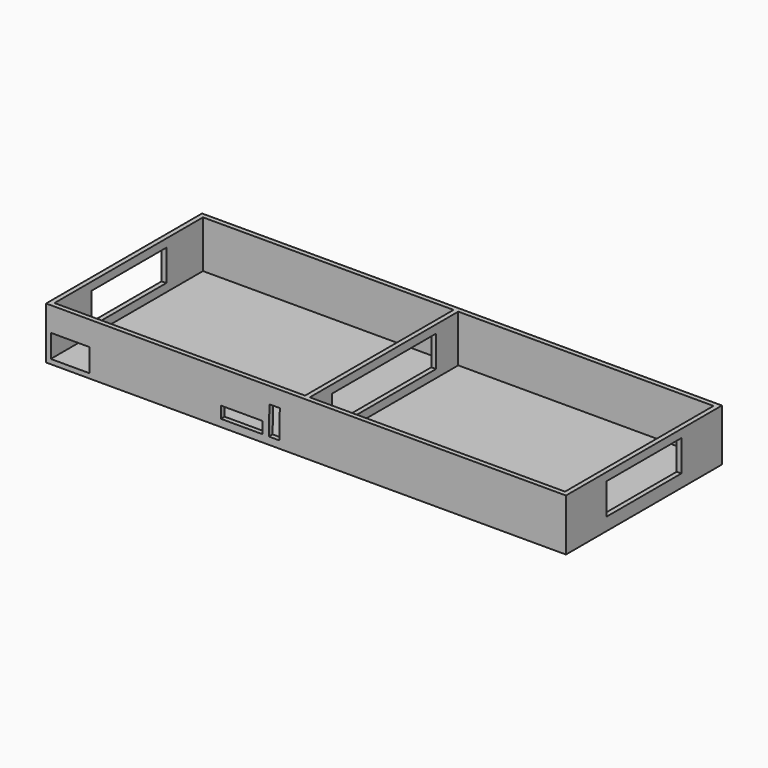
from build123d import *

# Parameters (mm, degrees)
F0_W       = 2000
F0_H       = 750
F1_DEPTH   = 200
F2_T       = -18
F3_W       = 18
F3_H       = 714
F4_DEPTH   = 182
F6_DEPTH   = 25
F7_W       = 150
F7_H       = 88.6
F7_W_2     = 160
F7_H_2     = 45
F8_DEPTH   = 25
F9_DEPTH   = 25
F10_DEPTH  = 25
F11_W      = 360
F11_H      = 120
F12_DEPTH  = 25
F12_FACE_W = 360
F12_FACE_H = 120
F13_DEPTH  = 25
F14_DEPTH  = 25
F15_W      = 360
F15_H      = 120
F16_DEPTH  = 20


with BuildPart() as f1:
    # F0 (on Top) → F1 (new body)
    with BuildSketch(Plane.XY):
        Rectangle(F0_W, F0_H)
    extrude(amount=F1_DEPTH)

    # F2
    f2_openings = [f1.faces().sort_by_distance(p)[0] for p in [
        (0, 0, 200),
    ]]
    offset(amount=F2_T, openings=f2_openings)

    # F3 (on face) → F4 (join)
    with BuildSketch(Plane.XY.offset(18)):
        with Locations((-9, 0)):
            Rectangle(F3_W, F3_H)
    extrude(amount=F4_DEPTH)

    # F5 (on face) → F6 (cut)
    with BuildSketch(Plane(origin=(-18, 0, 0), x_dir=(0, -1, 0), z_dir=(-1, 0, 0))):
        Polygon((250, 169), (0, 169), (-250, 169), (-250, 49), (250, 49), align=None)
    extrude(amount=-F6_DEPTH, mode=Mode.SUBTRACT)

    # F7 (on face) → F8 (cut)
    with BuildSketch(Plane(origin=(0, -357, 0), x_dir=(-1, 0, 0), z_dir=(0, 1, 0))):
        with Locations((907, 62.3)):
            Rectangle(F7_W, F7_H)
        Polygon((103.00435, 28), (143.00435, 28), (140.777453, 137.977456), (100.777453, 137.977456), align=None)
        with Locations((248, 50.5)):
            Rectangle(F7_W_2, F7_H_2)
    extrude(amount=-F8_DEPTH, mode=Mode.SUBTRACT)

    # F7 (on face) → F9 (cut)
    with BuildSketch(Plane(origin=(0, -357, 0), x_dir=(-1, 0, 0), z_dir=(0, 1, 0))):
        with Locations((907, 62.3)):
            Rectangle(F7_W, F7_H)
        Polygon((103.00435, 28), (143.00435, 28), (140.777453, 137.977456), (100.777453, 137.977456), align=None)
        with Locations((248, 50.5)):
            Rectangle(F7_W_2, F7_H_2)
    extrude(amount=-F9_DEPTH, mode=Mode.SUBTRACT)

    # F7 (on face) → F10 (cut)
    with BuildSketch(Plane(origin=(0, -357, 0), x_dir=(-1, 0, 0), z_dir=(0, 1, 0))):
        with Locations((907, 62.3)):
            Rectangle(F7_W, F7_H)
        Polygon((103.00435, 28), (143.00435, 28), (140.777453, 137.977456), (100.777453, 137.977456), align=None)
        with Locations((248, 50.5)):
            Rectangle(F7_W_2, F7_H_2)
    extrude(amount=-F10_DEPTH, mode=Mode.SUBTRACT)

    # F11 (on face) → F12 (join)
    with BuildSketch(Plane(origin=(982, 0, 0), x_dir=(0, -1, 0), z_dir=(-1, 0, 0))):
        with Locations((0, 109)):
            Rectangle(F11_W, F11_H)
    extrude(amount=F12_DEPTH)

    # F12_face (on face) → F13 (cut)
    with BuildSketch(Plane(origin=(957, 0, 109), x_dir=(0, -1, 0), z_dir=(-1, 0, 0))):
        Rectangle(F12_FACE_W, F12_FACE_H)
    extrude(amount=-F13_DEPTH, mode=Mode.SUBTRACT)

    # F11 (on face) → F14 (cut)
    with BuildSketch(Plane(origin=(982, 0, 0), x_dir=(0, -1, 0), z_dir=(-1, 0, 0))):
        with Locations((0, 109)):
            Rectangle(F11_W, F11_H)
    extrude(amount=-F14_DEPTH, mode=Mode.SUBTRACT)

    # F15 (on face) → F16 (cut)
    with BuildSketch(Plane(origin=(-1000, 0, 0), x_dir=(0, -1, 0), z_dir=(-1, 0, 0))):
        with Locations((-0.642158, 109.018745)):
            Rectangle(F15_W, F15_H)
    extrude(amount=-F16_DEPTH, mode=Mode.SUBTRACT)


solid = f1.part
